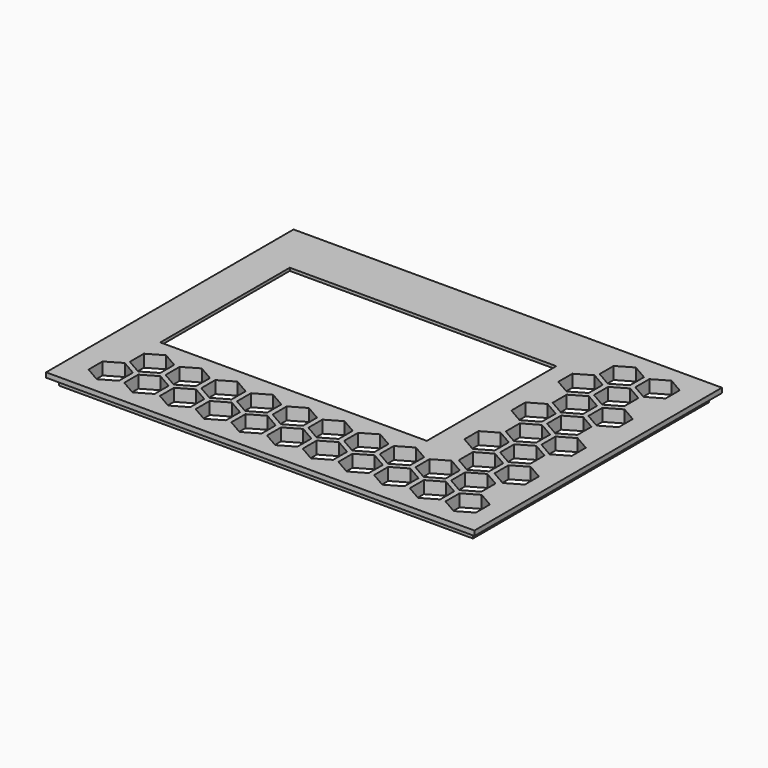
from build123d import *

# Parameters (mm, degrees)
F1_W     = 180
F1_H     = 130
F1_W_2   = 173.9
F1_H_2   = 123.9
F3_DEPTH = 2
F4_DEPTH = 3.2
F2_W     = 124
F2_H     = 78
F5_DEPTH = 12.5
F7_DEPTH = 5.201
F8_W     = 124
F8_H     = 78
F8_W_2   = 112
F8_H_2   = 68
F9_DEPTH = 1.2


with BuildPart() as f3:
    # F1 (on Top) → F3 (new body)
    with BuildSketch(Plane.XY):
        Rectangle(F1_W, F1_H)
        Rectangle(F1_W_2, F1_H_2, mode=Mode.SUBTRACT)
        Rectangle(F1_W_2, F1_H_2)
    extrude(amount=F3_DEPTH)

    # F1 (on Top) → F4 (join)
    with BuildSketch(Plane.XY):
        Rectangle(F1_W_2, F1_H_2)
    extrude(amount=-F4_DEPTH)

    # F2 (on Top) → F5 (cut, symmetric)
    with BuildSketch(Plane.XY):
        with Locations((-19.5, 11)):
            Rectangle(F2_W, F2_H)
    extrude(amount=F5_DEPTH, both=True, mode=Mode.SUBTRACT)

    # F6 (on face) → F7 (cut, through all)
    with BuildSketch(Plane.XY.offset(2)):
        Polygon((67.600376, 47.506958), (73.979015, 43.824249), (80.357653, 47.506958), (80.357653, 54.872375), (73.979015, 58.555084), (67.600376, 54.872375), align=None)
        Polygon((68.319021, 21.954576), (74.69766, 18.271868), (81.076298, 21.954576), (81.076298, 29.319993), (74.69766, 33.002702), (68.319021, 29.319993), align=None)
        Polygon((60.459699, 34.730767), (66.838337, 31.048058), (73.216976, 34.730767), (73.216976, 42.096184), (66.838337, 45.778893), (60.459699, 42.096184), align=None)
        Polygon((52.600376, 47.506958), (58.979015, 43.824249), (65.357653, 47.506958), (65.357653, 54.872375), (58.979015, 58.555084), (52.600376, 54.872375), align=None)
        Polygon((69.037666, -3.597806), (75.416304, -7.280514), (81.794943, -3.597806), (81.794943, 3.767612), (75.416304, 7.45032), (69.037666, 3.767612), align=None)
        Polygon((61.178343, 9.178385), (67.556982, 5.495677), (73.93562, 9.178385), (73.93562, 16.543803), (67.556982, 20.226511), (61.178343, 16.543803), align=None)
        Polygon((53.319021, 21.954576), (59.69766, 18.271868), (66.076298, 21.954576), (66.076298, 29.319993), (59.69766, 33.002702), (53.319021, 29.319993), align=None)
        Polygon((45.459699, 34.730767), (51.838337, 31.048058), (58.216976, 34.730767), (58.216976, 42.096184), (51.838337, 45.778893), (45.459699, 42.096184), align=None)
        Polygon((69.75631, -29.150187), (76.134949, -32.832896), (82.513587, -29.150187), (82.513587, -21.78477), (76.134949, -18.102061), (69.75631, -21.78477), align=None)
        Polygon((61.896988, -16.373996), (68.275626, -20.056705), (74.654265, -16.373996), (74.654265, -9.008579), (68.275626, -5.325871), (61.896988, -9.008579), align=None)
        Polygon((54.037666, -3.597806), (60.416304, -7.280514), (66.794943, -3.597806), (66.794943, 3.767612), (60.416304, 7.45032), (54.037666, 3.767612), align=None)
        Polygon((46.178343, 9.178385), (52.556982, 5.495677), (58.93562, 9.178385), (58.93562, 16.543803), (52.556982, 20.226511), (46.178343, 16.543803), align=None)
        Polygon((54.75631, -29.150187), (61.134949, -32.832896), (67.513587, -29.150187), (67.513587, -21.78477), (61.134949, -18.102061), (54.75631, -21.78477), align=None)
        Polygon((46.896988, -16.373996), (53.275626, -20.056705), (59.654265, -16.373996), (59.654265, -9.008579), (53.275626, -5.325871), (46.896988, -9.008579), align=None)
        Polygon((69.651335, -54.758514), (76.029973, -58.441223), (82.408612, -54.758514), (82.408612, -47.393097), (76.029973, -43.710389), (69.651335, -47.393097), align=None)
        Polygon((61.792012, -41.982324), (68.170651, -45.665032), (74.549289, -41.982324), (74.549289, -34.616906), (68.170651, -30.934198), (61.792012, -34.616906), align=None)
        Polygon((54.651335, -54.758514), (61.029973, -58.441223), (67.408612, -54.758514), (67.408612, -47.393097), (61.029973, -43.710389), (54.651335, -47.393097), align=None)
        Polygon((46.792012, -41.982324), (53.170651, -45.665032), (59.549289, -41.982324), (59.549289, -34.616906), (53.170651, -30.934198), (46.792012, -34.616906), align=None)
        Polygon((39.651335, -54.758514), (46.029973, -58.441223), (52.408612, -54.758514), (52.408612, -47.393097), (46.029973, -43.710389), (39.651335, -47.393097), align=None)
        Polygon((31.792012, -41.982324), (38.170651, -45.665032), (44.549289, -41.982324), (44.549289, -34.616906), (38.170651, -30.934198), (31.792012, -34.616906), align=None)
        Polygon((24.651335, -54.758514), (31.029973, -58.441223), (37.408612, -54.758514), (37.408612, -47.393097), (31.029973, -43.710389), (24.651335, -47.393097), align=None)
        Polygon((16.792012, -41.982324), (23.170651, -45.665032), (29.549289, -41.982324), (29.549289, -34.616906), (23.170651, -30.934198), (16.792012, -34.616906), align=None)
        Polygon((9.651335, -54.758514), (16.029973, -58.441223), (22.408612, -54.758514), (22.408612, -47.393097), (16.029973, -43.710389), (9.651335, -47.393097), align=None)
        Polygon((1.792012, -41.982324), (8.170651, -45.665032), (14.549289, -41.982324), (14.549289, -34.616906), (8.170651, -30.934198), (1.792012, -34.616906), align=None)
        Polygon((-5.348665, -54.758514), (1.029973, -58.441223), (7.408612, -54.758514), (7.408612, -47.393097), (1.029973, -43.710389), (-5.348665, -47.393097), align=None)
        Polygon((-13.207988, -41.982324), (-6.829349, -45.665032), (-0.450711, -41.982324), (-0.450711, -34.616906), (-6.829349, -30.934198), (-13.207988, -34.616906), align=None)
        Polygon((-20.348665, -54.758514), (-13.970027, -58.441223), (-7.591388, -54.758514), (-7.591388, -47.393097), (-13.970027, -43.710389), (-20.348665, -47.393097), align=None)
        Polygon((-28.207988, -41.982324), (-21.829349, -45.665032), (-15.450711, -41.982324), (-15.450711, -34.616906), (-21.829349, -30.934198), (-28.207988, -34.616906), align=None)
        Polygon((-35.348665, -54.758514), (-28.970027, -58.441223), (-22.591388, -54.758514), (-22.591388, -47.393097), (-28.970027, -43.710389), (-35.348665, -47.393097), align=None)
        Polygon((-43.207988, -41.982324), (-36.829349, -45.665032), (-30.450711, -41.982324), (-30.450711, -34.616906), (-36.829349, -30.934198), (-43.207988, -34.616906), align=None)
        Polygon((-50.348665, -54.758514), (-43.970027, -58.441223), (-37.591388, -54.758514), (-37.591388, -47.393097), (-43.970027, -43.710389), (-50.348665, -47.393097), align=None)
        Polygon((-58.207988, -41.982324), (-51.829349, -45.665032), (-45.450711, -41.982324), (-45.450711, -34.616906), (-51.829349, -30.934198), (-58.207988, -34.616906), align=None)
        Polygon((-65.348665, -54.758514), (-58.970027, -58.441223), (-52.591388, -54.758514), (-52.591388, -47.393097), (-58.970027, -43.710389), (-65.348665, -47.393097), align=None)
        Polygon((-73.207988, -41.982324), (-66.829349, -45.665032), (-60.450711, -41.982324), (-60.450711, -34.616906), (-66.829349, -30.934198), (-73.207988, -34.616906), align=None)
        Polygon((-80.348665, -54.758514), (-73.970027, -58.441223), (-67.591388, -54.758514), (-67.591388, -47.393097), (-73.970027, -43.710389), (-80.348665, -47.393097), align=None)
    extrude(amount=-F7_DEPTH, mode=Mode.SUBTRACT)

    # F8 (on face) → F9 (join)
    with BuildSketch(Plane.XY.offset(2)):
        with Locations((-19.5, 11)):
            Rectangle(F8_W, F8_H)
        with Locations((-18, 9)):
            Rectangle(F8_W_2, F8_H_2, mode=Mode.SUBTRACT)
    extrude(amount=-F9_DEPTH)


solid = f3.part
